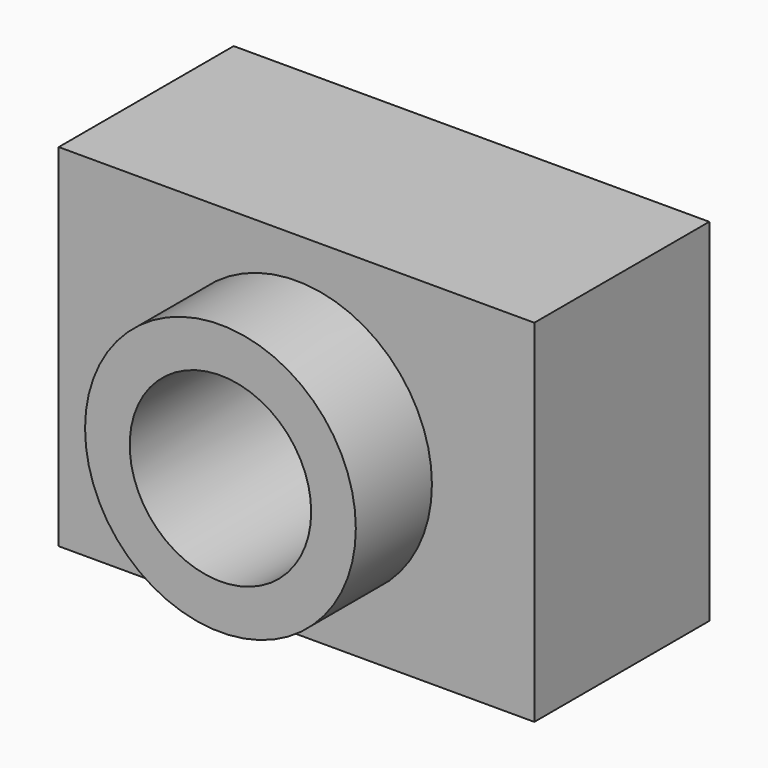
from build123d import *

# Parameters (mm, degrees)
F0_W      = 110.49001
F0_H      = 81.642858
F1_DEPTH  = 25.4
F1_FACE_W = 110.49001
F1_FACE_H = 81.642858
F2_DEPTH  = 25.4
F4_R      = 31.45223
F5_DEPTH  = 47.498
F3_R      = 21.081854
F6_DEPTH  = 117.856
F7_R      = 20.698965
F8_DEPTH  = 81.534


with BuildPart() as f1:
    # F0 (on Front) → F1 (new body)
    with BuildSketch(Plane.XZ):
        Rectangle(F0_W, F0_H)
    extrude(amount=F1_DEPTH)

    # F1_face (on face) → F2 (join)
    with BuildSketch(Plane(origin=(0, 0, 0), x_dir=(1, 0, 0), z_dir=(0, 1, 0))):
        Rectangle(F1_FACE_W, F1_FACE_H)
    extrude(amount=F2_DEPTH)

    # F4 (on Front) → F5 (join)
    with BuildSketch(Plane.XZ):
        Circle(F4_R)
    extrude(amount=F5_DEPTH)

    # F3 (on Front) → F6 (cut)
    with BuildSketch(Plane.XZ):
        Circle(F3_R)
    extrude(amount=F6_DEPTH, mode=Mode.SUBTRACT)

    # F7 (on Front) → F8 (cut)
    with BuildSketch(Plane.XZ):
        Circle(F7_R)
    extrude(amount=-F8_DEPTH, mode=Mode.SUBTRACT)


solid = f1.part
